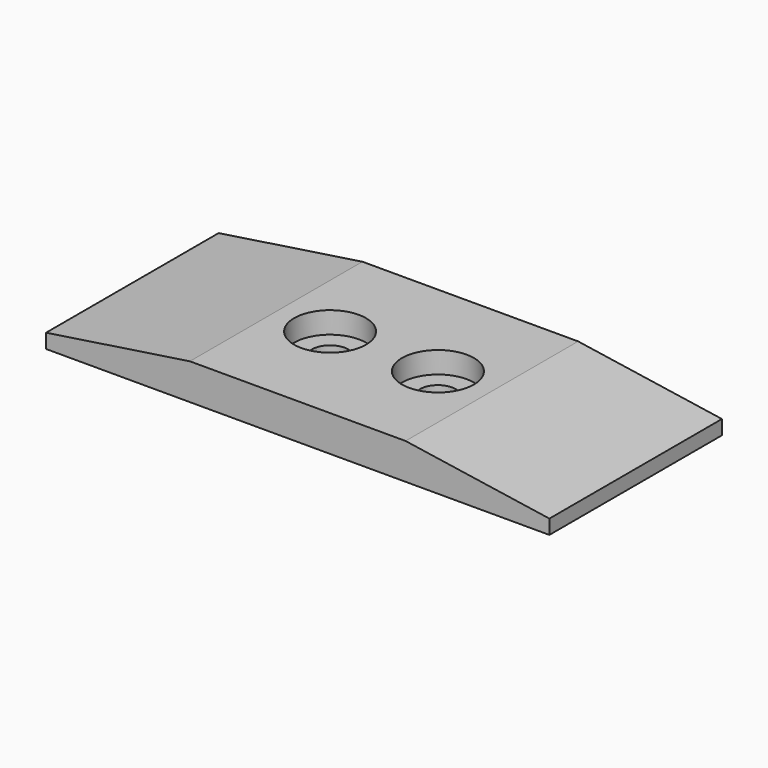
from build123d import *

# Parameters (mm, degrees)
F1_DEPTH = 30
F2_R     = 5
F3_DEPTH = 3
F4_R     = 2.5
F5_DEPTH = 10
F6_R     = 2.5
F7_DEPTH = 25


with BuildPart() as f1:
    # F0 (on Front) → F1 (new body)
    with BuildSketch(Plane.XZ):
        Polygon((-35, 0), (0, 0), (35, 0), (35, 2), (15, 5), (0, 5), (-15, 5), (-35, 2), align=None)
    extrude(amount=F1_DEPTH)

    # F2 (on face) → F3 (cut)
    with BuildSketch(Plane.XY.offset(5)):
        with Locations((-7.5, -15)):
            Circle(F2_R)
        with Locations((7.5, -15)):
            Circle(F2_R)
    extrude(amount=-F3_DEPTH, mode=Mode.SUBTRACT)

    # F4 (on face) → F5 (cut)
    with BuildSketch(Plane.XY.offset(2)):
        with Locations((-7.5, -15)):
            Circle(F4_R)
    extrude(amount=-F5_DEPTH, mode=Mode.SUBTRACT)

    # F6 (on face) → F7 (cut)
    with BuildSketch(Plane.XY.offset(2)):
        with Locations((7.5, -15)):
            Circle(F6_R)
    extrude(amount=-F7_DEPTH, mode=Mode.SUBTRACT)


solid = f1.part
